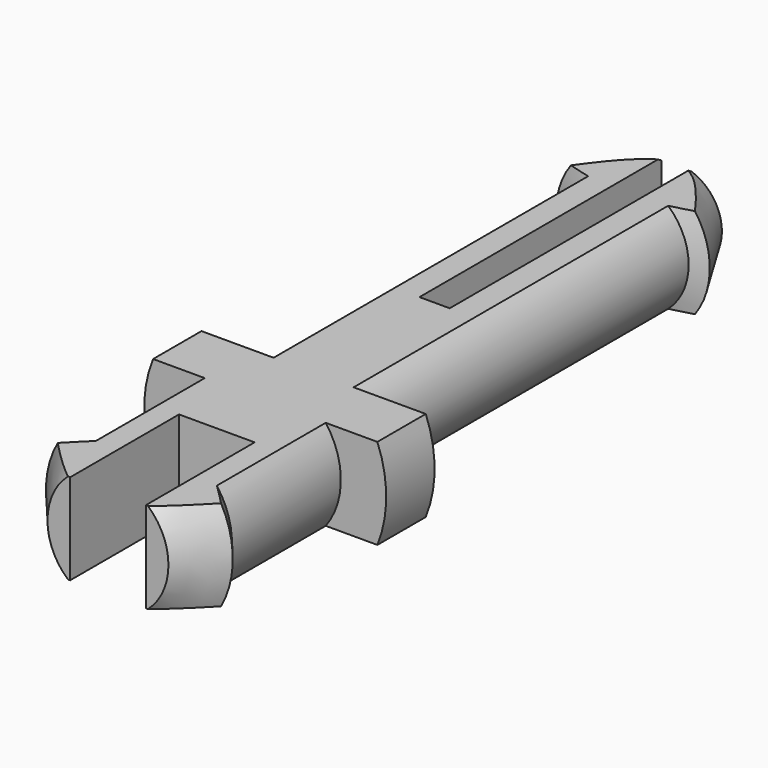
from build123d import *

# Parameters (mm, degrees)
F15_R     = 2.5
F0_DEPTH  = 4.5
F3_W      = 2.5
F3_H      = 7
F4_DEPTH  = 3.5
F5_R      = 4
F6_DEPTH  = 2
F7_R      = 2
F8_DEPTH  = 13
F11_W     = 1
F11_H     = 11
F12_DEPTH = 12.5
F13_W     = 11
F13_H     = 5
F14_DEPTH = 25


with BuildPart() as f0:
    # F15 (on Front) → F0 (new body)
    with BuildSketch(Plane.XZ):
        Circle(F15_R)
    extrude(amount=F0_DEPTH)

    # F1 (on Right) → F2 (revolve)
    with BuildSketch(Plane.YZ):
        Polygon((-6.5, 0), (-4.5, 0), (-4.5, 2.5), (-5.202062, 3.0891), (-6.5, 2), align=None)
    revolve(axis=Axis((0, -8.987078, 0), (0, -1, 0)))

    # F3 (on Top) → F4 (cut, symmetric)
    with BuildSketch(Plane.XY):
        with Locations((0, -5.5)):
            Rectangle(F3_W, F3_H)
    extrude(amount=F4_DEPTH, both=True, mode=Mode.SUBTRACT)

    # F5 (on face) → F6 (join)
    with BuildSketch(Plane.XZ):
        Circle(F5_R)
    extrude(amount=-F6_DEPTH)

    # F7 (on face) → F8 (join)
    with BuildSketch(Plane(origin=(0, 2, 0), x_dir=(-1, 0, 0), z_dir=(0, 1, 0))):
        Circle(F7_R)
    extrude(amount=F8_DEPTH)

    # F9 (on Right) → F10 (revolve)
    with BuildSketch(Plane.YZ):
        Polygon((15, 2), (15, 0), (17, 0), (17, 1.5), (15.196913, 2.541013), align=None)
    revolve(axis=Axis((0, 16, 0), (0, 1, 0)))

    # F11 (on Top) → F12 (cut, symmetric)
    with BuildSketch(Plane.XY):
        with Locations((0, 12.5)):
            Rectangle(F11_W, F11_H)
    extrude(amount=F12_DEPTH, both=True, mode=Mode.SUBTRACT)

    # F13 (on Front) → F14 (cut, symmetric)
    with BuildSketch(Plane.XZ):
        with Locations((0, 4)):
            Rectangle(F13_W, F13_H)
        with Locations((0, -4)):
            Rectangle(F13_W, F13_H)
    extrude(amount=F14_DEPTH, both=True, mode=Mode.SUBTRACT)


solid = f0.part
